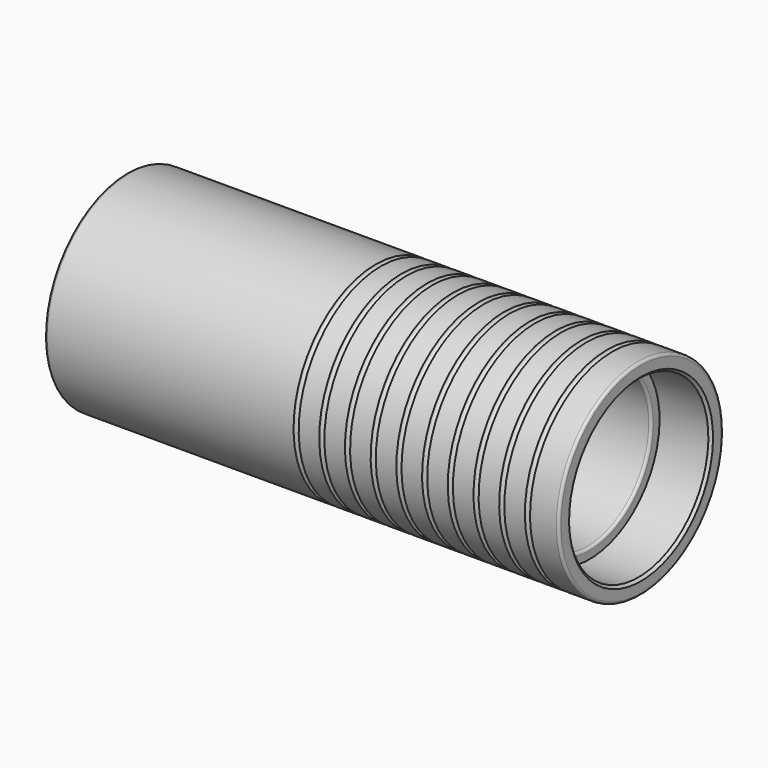
from build123d import *

# Parameters (mm, degrees)
F2_R    = 0.5
F3_SIZE = 0.5
F4_R    = 0.5


with BuildPart() as f1:
    # F0 (on Front) → F1 (revolve)
    with BuildSketch(Plane.XZ):
        Polygon((51.096257, 20), (-48.903743, 20), (-48.903743, 17), (-13.903743, 17), (-13.903743, 15), (41.096257, 15), (41.096257, 17), (51.096257, 17), align=None)
    revolve(axis=Axis((15.16043, 0, 0), (1, 0, 0)))

    # F2
    f2_edges = [f1.edges().sort_by_distance(p)[0] for p in [
        (51.096257, 0, -20),
        (-48.903743, 0, -20),
        (1.096257, 0, 20),
        (-13.903743, 0, -15),
        (41.096257, 0, -15),
        (13.596257, 0, 15),
    ]]
    fillet(f2_edges, radius=F2_R)

    # F3
    f3_edges = [f1.edges().sort_by_distance(p)[0] for p in [
        (51.096257, 0, -17),
        (-48.903743, 0, -17),
    ]]
    chamfer(f3_edges, length=F3_SIZE)

    # F4 (on Front) → F5 (revolve, cut)
    with BuildSketch(Plane.XZ):
        with Locations((45, 20)):
            Circle(F4_R)
        with Locations((40, 20)):
            Circle(F4_R)
        with Locations((35, 20)):
            Circle(F4_R)
        with Locations((30, 20)):
            Circle(F4_R)
        with Locations((25, 20)):
            Circle(F4_R)
        with Locations((20, 20)):
            Circle(F4_R)
        with Locations((15, 20)):
            Circle(F4_R)
        with Locations((10, 20)):
            Circle(F4_R)
        with Locations((5, 20)):
            Circle(F4_R)
        with Locations((0, 20)):
            Circle(F4_R)
    revolve(axis=Axis((0.714577, 0, 0), (1, 0, 0)), mode=Mode.SUBTRACT)


solid = f1.part
